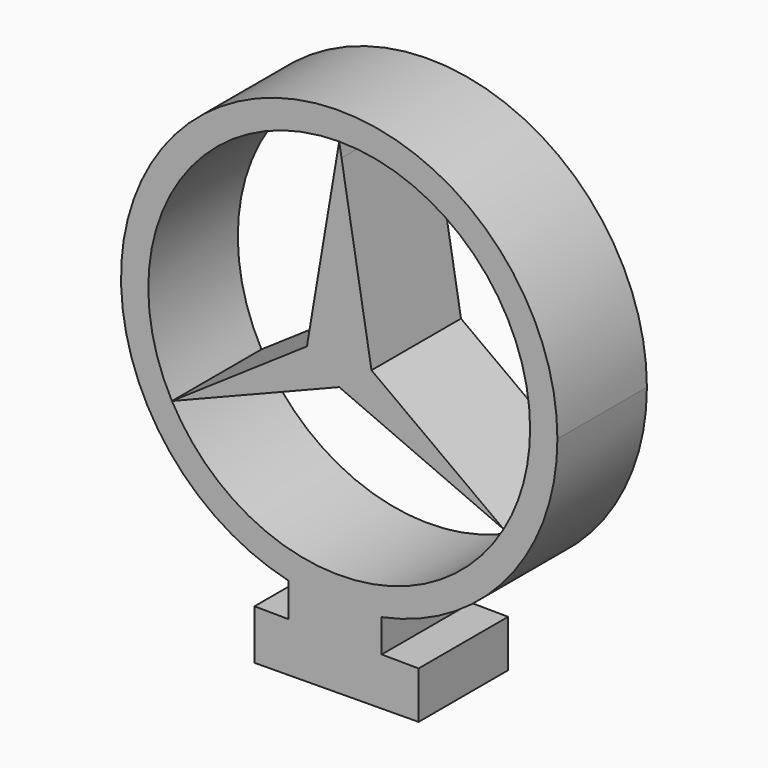
from build123d import *

# Parameters (mm, degrees)
F1_DEPTH = 25.4


with BuildPart() as f1:
    # F0 (on Front) → F1 (new body)
    with BuildSketch(Plane.XZ):
        with BuildLine():
            ThreePointArc((49.53907, 0), (-30.687987, 38.889162), (-11.518473, -48.181369))
            ThreePointArc((-11.518473, -48.181369), (-0.957145, -49.529823), (9.648395, -48.59041))
            ThreePointArc((9.648395, -48.59041), (38.28898, -31.433636), (49.53907, 0))
        make_face()
        with BuildLine():
            ThreePointArc((0, 43.34087), (30.646623, 30.646623), (43.34087, 0))
            ThreePointArc((43.34087, 0), (41.812279, -11.408958), (37.33433, -22.01315))
            ThreePointArc((37.33433, -22.01315), (-0.649712, -43.336), (-37.977464, -20.884043))
            ThreePointArc((-37.977464, -20.884043), (-37.306592, 22.060127), (0, 43.34087))
        make_face(mode=Mode.SUBTRACT)
        Polygon((0.529305, 40.211648), (0, 43.34087), (-7.327536, 0), (-37.977464, -20.884043), (-1.239218, -0.681454), (0, 0), align=None)
        Polygon((-1.239218, -0.681454), (37.33433, -22.01315), (7.331061, 0), (0.529305, 40.211648), (0, 0), align=None)
        Polygon((0, -5.750131), (37.33433, -22.01315), (-1.239218, -0.681454), (-37.977464, -20.884043), align=None)
        with BuildLine():
            Line((-11.518473, -48.181369), (-11.518473, -55.878425))
            Line((-11.518473, -55.878425), (9.648395, -56.05187))
            Line((9.648395, -56.05187), (9.648395, -48.59041))
            ThreePointArc((9.648395, -48.59041), (-0.957145, -49.529823), (-11.518473, -48.181369))
        make_face()
        Polygon((-11.518473, -55.878425), (-19.230583, -55.815231), (-19.230583, -67.114565), (18.026687, -66.809085), (18.026687, -56.120523), (9.648395, -56.05187), align=None)
    extrude(amount=F1_DEPTH)


solid = f1.part
